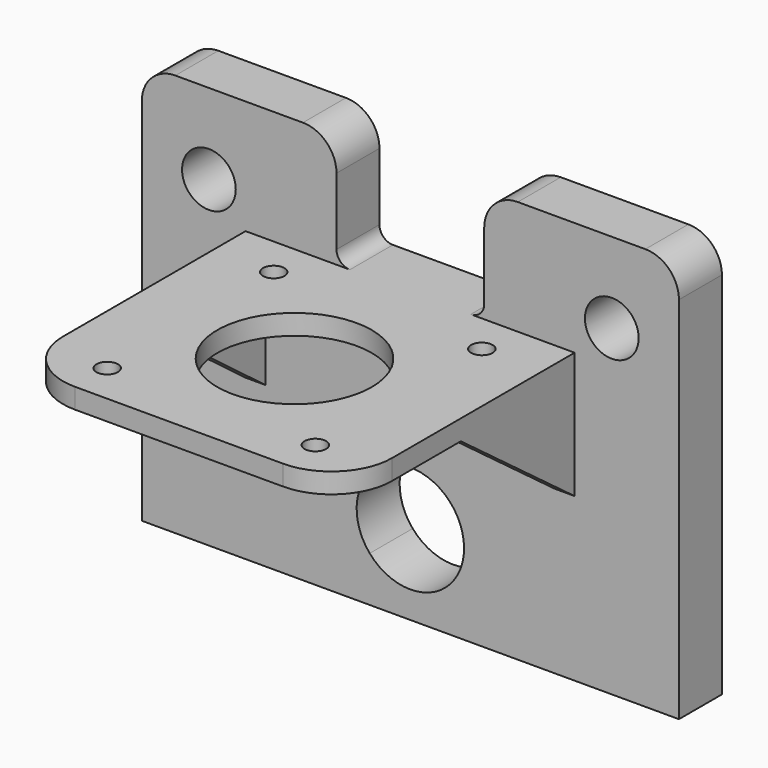
from build123d import *

# Parameters (mm, degrees)
F0_R      = 5
F0_R_2    = 4
F1_DEPTH  = 8
F2_W      = 49
F2_H      = 43
F2_R      = 1.6
F2_R_2    = 11.5
F3_DEPTH  = 3
F5_DEPTH  = 3
F6_R      = 9
F8_DEPTH  = 3
F9_DEPTH  = 8
F10_DEPTH = 8


with BuildPart() as f1:
    # F0 (on Front) → F1 (new body)
    with BuildSketch(Plane.XZ):
        with BuildLine():
            Line((-15.9509392173, 58.3590910856), (-34.9509392173, 58.3590910856))
            ThreePointArc((-34.9509392173, 58.3590910856), (-38.4864731233, 56.8946249915), (-39.9509392173, 53.3590910856))
            Line((-39.9509392173, 53.3590910856), (-39.9509392173, -1.6409089144))
            Line((-39.9509392173, -1.6409089144), (-18.2393845171, -1.6409089144))
            Line((-18.2393845171, -1.6409089144), (-18.2393845171, 0.1278397727))
            ThreePointArc((-18.2393845171, 0.1278397727), (-16.774918423, 3.6633736787), (-13.2393845171, 5.1278397727))
            Line((-13.2393845171, 5.1278397727), (-6.0035427647, 5.1278397727))
            ThreePointArc((-6.0035427647, 5.1278397727), (-2.7419221644, 17.8564515671), (8.0490607827, 10.3590910856))
            ThreePointArc((8.0490607827, 10.3590910856), (7.5464212642, 7.5681081386), (6.10166433, 5.1278397727))
            Line((6.10166433, 5.1278397727), (13.3375060824, 5.1278397727))
            ThreePointArc((13.3375060824, 5.1278397727), (16.8730399883, 3.6633736787), (18.3375060824, 0.1278397727))
            Line((18.3375060824, 0.1278397727), (18.3375060824, -1.6409089144))
            Line((18.3375060824, -1.6409089144), (40.0490607827, -1.6409089144))
            Line((40.0490607827, -1.6409089144), (40.0490607827, 53.3590910856))
            ThreePointArc((40.0490607827, 53.3590910856), (38.5845946886, 56.8946249915), (35.0490607827, 58.3590910856))
            Line((35.0490607827, 58.3590910856), (16.0490607827, 58.3590910856))
            ThreePointArc((16.0490607827, 58.3590910856), (12.5135268767, 56.8946249915), (11.0490607827, 53.3590910856))
            Line((11.0490607827, 53.3590910856), (11.0490607827, 43.3590910856))
            ThreePointArc((11.0490607827, 43.3590910856), (10.463274345, 41.9448775232), (9.0490607827, 41.3590910856))
            Line((9.0490607827, 41.3590910856), (-8.9509392173, 41.3590910856))
            ThreePointArc((-8.9509392173, 41.3590910856), (-10.3651527797, 41.9448775232), (-10.9509392173, 43.3590910856))
            Line((-10.9509392173, 43.3590910856), (-10.9509392173, 53.3590910856))
            ThreePointArc((-10.9509392173, 53.3590910856), (-12.4154053114, 56.8946249915), (-15.9509392173, 58.3590910856))
        make_face()
        with Locations((-29.9509392173, 10.3590910856)):
            Circle(F0_R, mode=Mode.SUBTRACT)
        with Locations((30.0490607827, 10.3590910856)):
            Circle(F0_R, mode=Mode.SUBTRACT)
        with Locations((-29.9509392173, 46.3590910856)):
            Circle(F0_R_2, mode=Mode.SUBTRACT)
        with Locations((30.0490607827, 46.3590910856)):
            Circle(F0_R_2, mode=Mode.SUBTRACT)
    extrude(amount=F1_DEPTH)

    # F2 (on face) → F3 (join)
    with BuildSketch(Plane.XY.offset(41.3590910856)):
        with Locations((0.0111820996, -29.5)):
            Rectangle(F2_W, F2_H)
        with Locations((-15.5, -45)):
            Circle(F2_R, mode=Mode.SUBTRACT)
        with Locations((15.5, -45)):
            Circle(F2_R, mode=Mode.SUBTRACT)
        with Locations((0, -29.5)):
            Circle(F2_R_2, mode=Mode.SUBTRACT)
        with Locations((-15.5, -14)):
            Circle(F2_R, mode=Mode.SUBTRACT)
        with Locations((15.5, -14)):
            Circle(F2_R, mode=Mode.SUBTRACT)
    extrude(amount=-F3_DEPTH)

    # F4 (on face) → F5 (join)
    with BuildSketch(Plane(origin=(-24.4888179004, 0, 0), x_dir=(0, -1, 0), z_dir=(-1, 0, 0))):
        Polygon((29.5, 38.3590910856), (8, 38.3590910856), (7.8833866864, 22.056709975), align=None)
    extrude(amount=-F5_DEPTH)

    # F6
    f6_edges = [f1.edges().sort_by_distance(p)[0] for p in [
        (-24.488818, -51, 39.859091),
        (24.511182, -51, 39.859091),
    ]]
    fillet(f6_edges, radius=F6_R)

    # F7 (on face) → F8 (join)
    with BuildSketch(Plane.YZ.offset(24.5111820996)):
        Polygon((-8, 38.3590910856), (-29.1853044182, 38.3590910856), (-8, 22.5599054247), align=None)
    extrude(amount=-F8_DEPTH)

    # F0 (on Front) → F9 (join)
    with BuildSketch(Plane.XZ):
        with BuildLine():
            Line((-18.2393845171, 0.1278397727), (-18.2393845171, -1.6409089144))
            Line((-18.2393845171, -1.6409089144), (18.3375060824, -1.6409089144))
            Line((18.3375060824, -1.6409089144), (18.3375060824, 0.1278397727))
            ThreePointArc((18.3375060824, 0.1278397727), (16.8730399883, 3.6633736787), (13.3375060824, 5.1278397727))
            Line((13.3375060824, 5.1278397727), (6.10166433, 5.1278397727))
            ThreePointArc((6.10166433, 5.1278397727), (0.0490607827, 2.3590910856), (-6.0035427647, 5.1278397727))
            Line((-6.0035427647, 5.1278397727), (-13.2393845171, 5.1278397727))
            ThreePointArc((-13.2393845171, 5.1278397727), (-16.774918423, 3.6633736787), (-18.2393845171, 0.1278397727))
        make_face()
    extrude(amount=F9_DEPTH)

    # F0 (on Front) → F10 (join)
    with BuildSketch(Plane.XZ):
        with Locations((30.0490607827, 10.3590910856)):
            Circle(F0_R)
        with Locations((-29.9509392173, 10.3590910856)):
            Circle(F0_R)
    extrude(amount=F10_DEPTH)


with BuildPart() as f11_1:
    # F11: copy of F1
    add(f1.part)


solid = Compound([f1.part, f11_1.part])
